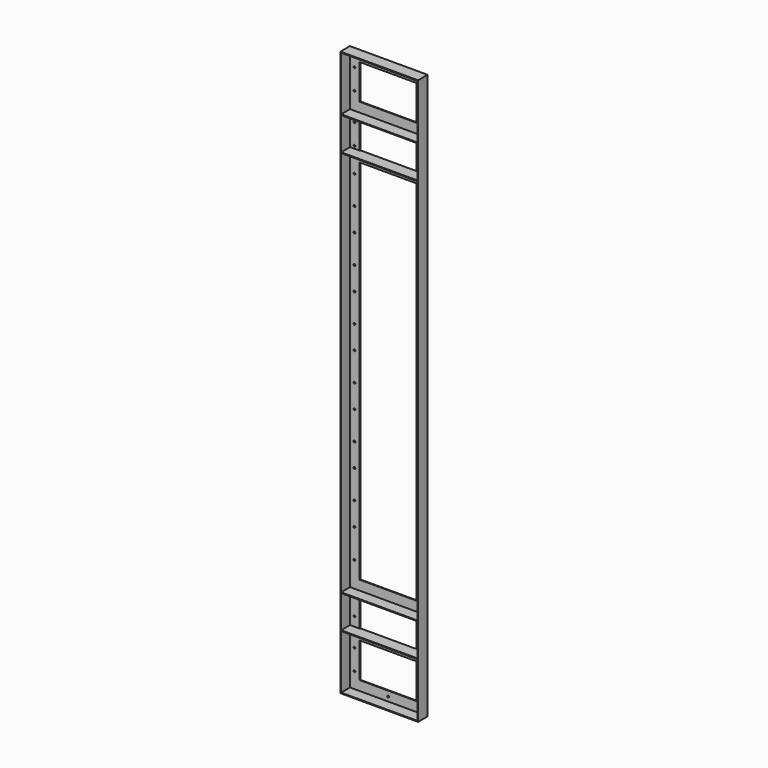
from build123d import *

# Parameters (mm, degrees)
F0_W     = 300
F0_H     = 2180
F1_DEPTH = 46
F0_W_2   = 294
F0_H_2   = 209
F0_R     = 3.5
F0_W_3   = 220
F0_H_3   = 135
F0_W_4   = 37
F0_H_4   = 126
F0_H_5   = 1492
F0_H_6   = 1418
F2_DEPTH = 3


with BuildPart() as f1:
    # F0 (on Front) → F1 (new body)
    with BuildSketch(Plane.XZ):
        Rectangle(F0_W, F0_H)
        Polygon((-147, 878), (-147, 1087), (147, 1087), (147, 878), (147, 875), (147, 749), (147, 746), (147, -746), (147, -749), (147, -875), (147, -878), (147, -1087), (-147, -1087), (-147, -878), (-147, -875), (-147, -749), (-147, -746), (-147, 746), (-147, 749), (-147, 875), align=None, mode=Mode.SUBTRACT)
        Polygon((147, -746), (-147, -746), (-147, -749), (-110, -749), (110, -749), (147, -749), align=None)
        Polygon((-110, -875), (-147, -875), (-147, -878), (147, -878), (147, -875), (110, -875), align=None)
        Polygon((-110, 749), (-147, 749), (-147, 746), (147, 746), (147, 749), (110, 749), align=None)
        Polygon((147, 878), (-147, 878), (-147, 875), (-110, 875), (110, 875), (147, 875), align=None)
    extrude(amount=F1_DEPTH)

    # F0 (on Front) → F2 (join)
    with BuildSketch(Plane.XZ):
        with Locations((0, 982.5)):
            Rectangle(F0_W_2, F0_H_2)
        with Locations((-130, 946)):
            Circle(F0_R, mode=Mode.SUBTRACT)
        with Locations((-130, 1026)):
            Circle(F0_R, mode=Mode.SUBTRACT)
        with Locations((0, 982.5)):
            Rectangle(F0_W_3, F0_H_3, mode=Mode.SUBTRACT)
        with Locations((0, 1070)):
            Circle(F0_R, mode=Mode.SUBTRACT)
        with Locations((130, 945)):
            Circle(F0_R, mode=Mode.SUBTRACT)
        with Locations((130, 1025)):
            Circle(F0_R, mode=Mode.SUBTRACT)
        with Locations((-128.5, 812)):
            Rectangle(F0_W_4, F0_H_4)
        with Locations((-130, 759)):
            Circle(F0_R, mode=Mode.SUBTRACT)
        with Locations((-130, 839)):
            Circle(F0_R, mode=Mode.SUBTRACT)
        with Locations((128.5, 812)):
            Rectangle(F0_W_4, F0_H_4)
        with Locations((130, 758)):
            Circle(F0_R, mode=Mode.SUBTRACT)
        with Locations((130, 838)):
            Circle(F0_R, mode=Mode.SUBTRACT)
        Rectangle(F0_W_2, F0_H_5)
        with Locations((-130, -648)):
            Circle(F0_R, mode=Mode.SUBTRACT)
        with Locations((-130, -536)):
            Circle(F0_R, mode=Mode.SUBTRACT)
        with Locations((-130, -446)):
            Circle(F0_R, mode=Mode.SUBTRACT)
        with Locations((-130, -336)):
            Circle(F0_R, mode=Mode.SUBTRACT)
        with Locations((-130, -246)):
            Circle(F0_R, mode=Mode.SUBTRACT)
        with Locations((-130, -136)):
            Circle(F0_R, mode=Mode.SUBTRACT)
        with Locations((-130, -46)):
            Circle(F0_R, mode=Mode.SUBTRACT)
        with Locations((130, -645)):
            Circle(F0_R, mode=Mode.SUBTRACT)
        with Locations((130, -533)):
            Circle(F0_R, mode=Mode.SUBTRACT)
        with Locations((130, -443)):
            Circle(F0_R, mode=Mode.SUBTRACT)
        with Locations((130, -333)):
            Circle(F0_R, mode=Mode.SUBTRACT)
        with Locations((130, -243)):
            Circle(F0_R, mode=Mode.SUBTRACT)
        with Locations((130, -133)):
            Circle(F0_R, mode=Mode.SUBTRACT)
        with Locations((130, -43)):
            Circle(F0_R, mode=Mode.SUBTRACT)
        with Locations((-130, 64)):
            Circle(F0_R, mode=Mode.SUBTRACT)
        with Locations((-130, 154)):
            Circle(F0_R, mode=Mode.SUBTRACT)
        with Locations((-130, 264)):
            Circle(F0_R, mode=Mode.SUBTRACT)
        with Locations((-130, 354)):
            Circle(F0_R, mode=Mode.SUBTRACT)
        with Locations((-130, 464)):
            Circle(F0_R, mode=Mode.SUBTRACT)
        with Locations((-130, 554)):
            Circle(F0_R, mode=Mode.SUBTRACT)
        with Locations((-130, 664)):
            Circle(F0_R, mode=Mode.SUBTRACT)
        Rectangle(F0_W_3, F0_H_6, mode=Mode.SUBTRACT)
        with Locations((130, 67)):
            Circle(F0_R, mode=Mode.SUBTRACT)
        with Locations((130, 157)):
            Circle(F0_R, mode=Mode.SUBTRACT)
        with Locations((130, 267)):
            Circle(F0_R, mode=Mode.SUBTRACT)
        with Locations((130, 357)):
            Circle(F0_R, mode=Mode.SUBTRACT)
        with Locations((130, 467)):
            Circle(F0_R, mode=Mode.SUBTRACT)
        with Locations((130, 557)):
            Circle(F0_R, mode=Mode.SUBTRACT)
        with Locations((130, 667)):
            Circle(F0_R, mode=Mode.SUBTRACT)
        with Locations((-128.5, -812)):
            Rectangle(F0_W_4, F0_H_4)
        with Locations((-130, -839.5)):
            Circle(F0_R, mode=Mode.SUBTRACT)
        with Locations((-130, -759.5)):
            Circle(F0_R, mode=Mode.SUBTRACT)
        with Locations((128.5, -812)):
            Rectangle(F0_W_4, F0_H_4)
        with Locations((130, -836.5)):
            Circle(F0_R, mode=Mode.SUBTRACT)
        with Locations((130, -756.5)):
            Circle(F0_R, mode=Mode.SUBTRACT)
        with Locations((0, -982.5)):
            Rectangle(F0_W_2, F0_H_2)
        with Locations((-130, -1026.5)):
            Circle(F0_R, mode=Mode.SUBTRACT)
        with Locations((-130, -946.5)):
            Circle(F0_R, mode=Mode.SUBTRACT)
        with Locations((0, -1070)):
            Circle(F0_R, mode=Mode.SUBTRACT)
        with Locations((0, -982.5)):
            Rectangle(F0_W_3, F0_H_3, mode=Mode.SUBTRACT)
        with Locations((130, -1023.5)):
            Circle(F0_R, mode=Mode.SUBTRACT)
        with Locations((130, -943.5)):
            Circle(F0_R, mode=Mode.SUBTRACT)
    extrude(amount=F2_DEPTH)


solid = f1.part
